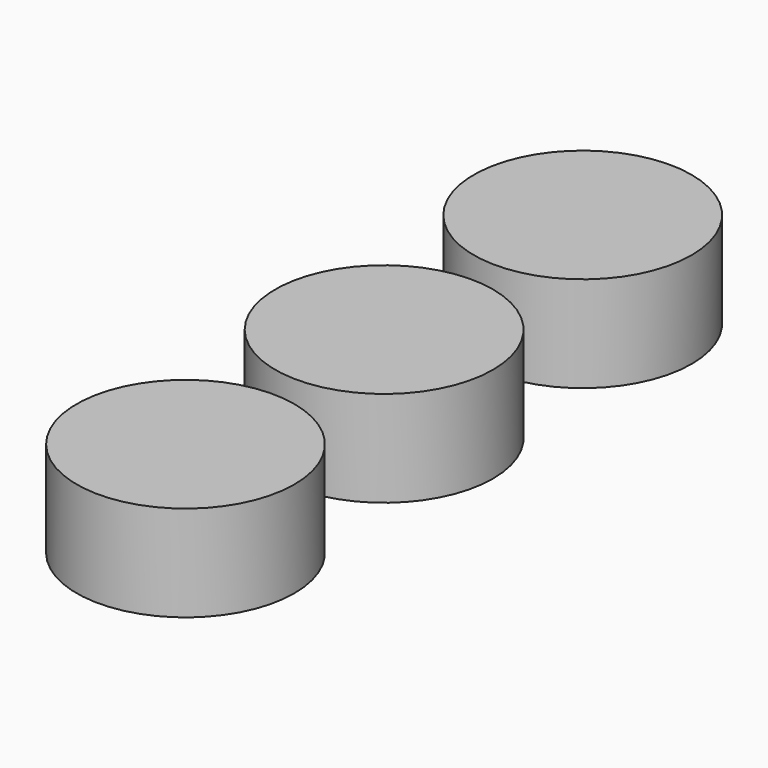
from build123d import *

# Parameters (mm, degrees)
F0_R     = 6.35
F1_DEPTH = 5.588


with BuildPart() as f1:
    # F0 (on Top) → F1 (new body)
    with BuildSketch(Plane.XY):
        Circle(F0_R)
    extrude(amount=F1_DEPTH)


with BuildPart() as f2_1:
    # F2: copy of F1
    add(f1.part.moved(Location((0, -14.478, 0))))


with BuildPart() as f3_1:
    # F3: instance of F2_1
    add(f2_1.part.mirror(Plane.XZ))


solid = Compound([f1.part, f2_1.part, f3_1.part])
